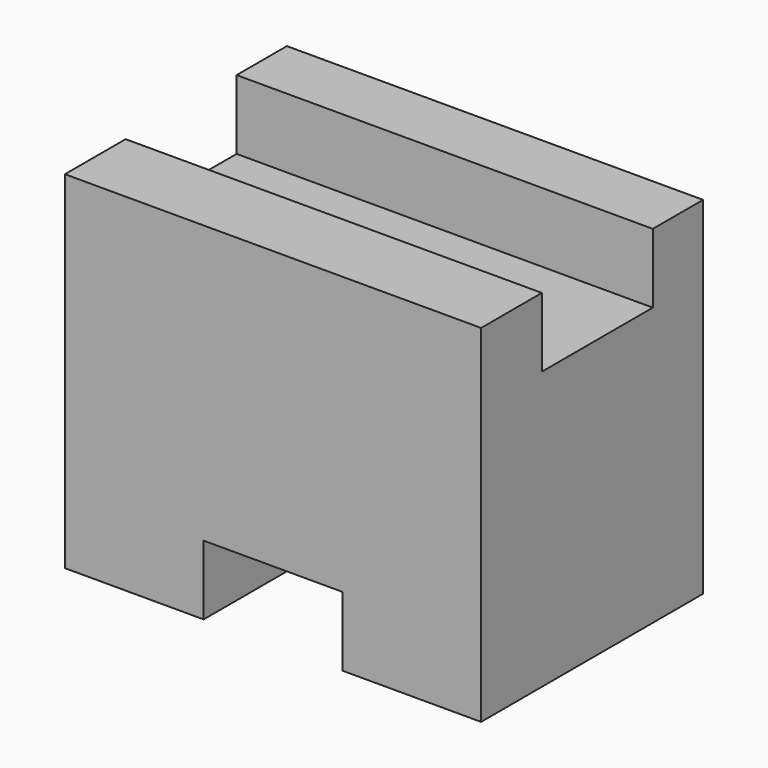
from build123d import *

# Parameters (mm, degrees)
F0_W     = 38.1
F0_H     = 31.75
F1_DEPTH = 25.4
F2_W     = 12.7
F2_H     = 6.35
F3_DEPTH = 25.401
F4_W     = 12.7
F4_H     = 6.35
F5_DEPTH = 38.101


with BuildPart() as f1:
    # F0 (on Front) → F1 (new body)
    with BuildSketch(Plane.XZ):
        with Locations((19.05, 15.875)):
            Rectangle(F0_W, F0_H)
    extrude(amount=F1_DEPTH)

    # F2 (on face) → F3 (cut, through all)
    with BuildSketch(Plane.XZ.offset(25.4)):
        with Locations((19.05, 3.175)):
            Rectangle(F2_W, F2_H)
    extrude(amount=-F3_DEPTH, mode=Mode.SUBTRACT)

    # F4 (on face) → F5 (cut, through all)
    with BuildSketch(Plane.YZ.offset(38.1)):
        with Locations((-12.101918, 28.575)):
            Rectangle(F4_W, F4_H)
    extrude(amount=-F5_DEPTH, mode=Mode.SUBTRACT)


solid = f1.part
